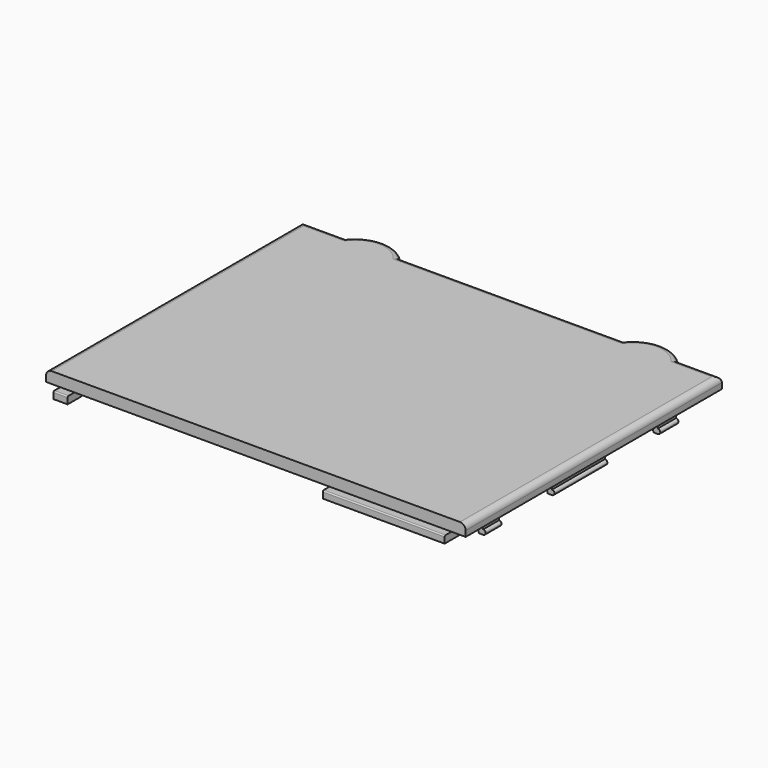
from build123d import *

# Parameters (mm, degrees)
PAD_DEPTH    = 4
PAD001_DEPTH = 138
PAD002_DEPTH = 85
POCKET_DEPTH = 10
FILLET_R     = 0.4
FILLET001_R  = 2


with BuildPart() as part:
    # Sketch → Pad (new body)
    with BuildSketch(Plane.XY):
        with BuildLine():
            Line((0, 0), (148, 0))
            Line((148, 0), (148, 113))
            Line((132.604686, 113), (148, 113))
            ThreePointArc((132.604686, 113), (123, 117.5), (113.395314, 113))
            Line((34.604686, 113), (113.395314, 113))
            ThreePointArc((34.604686, 113), (25, 117.5), (15.395314, 113))
            Line((0, 113), (15.395314, 113))
            Line((0, 113), (0, 0))
        make_face()
    extrude(amount=PAD_DEPTH)

    # Sketch001 (on Face3 of Pad) → Pad001 (join)
    with BuildSketch(Plane(origin=(5, 0, 0), x_dir=(0, -1, 0), z_dir=(-1, 0, 0))):
        Polygon((3, 0), (3, -2.5), (-3, -2.5), (-5.5, 0), (0, 0), align=None)
    extrude(amount=-PAD001_DEPTH)

    # Sketch002 (on Face10 of Pad001) → Pad002 (join)
    with BuildSketch(Plane.XZ.offset(-13)):
        with BuildLine():
            Line((143.8, 0), (140.3, 0))
            Line((140.3, 0), (142.3, -6))
            Line((142.3, -6), (143.8, -6))
            ThreePointArc((143.8, -6), (144.65, -5.15), (143.8, -4.3))
            Line((143.8, 0), (143.8, -4.3))
        make_face()
        with BuildLine():
            Line((4.2, 0), (4.2, -4.3))
            ThreePointArc((4.2, -4.3), (3.35, -5.15), (4.2, -6))
            Line((4.2, -6), (5.7, -6))
            Line((5.7, -6), (7.7, 0))
            Line((7.7, 0), (4.2, 0))
        make_face()
    extrude(amount=-PAD002_DEPTH)

    # Sketch003 (on Face4 of Pad002) → Pocket (cut)
    with BuildSketch(Plane(origin=(0, 0, 0), x_dir=(1, 0, 0), z_dir=(0, 0, -1))):
        Polygon((100, 10), (10, 10), (10, -20), (-10, -20), (-10, -43.333333), (10, -43.333333), (10, -66.666667), (-10, -66.666667), (-10, -90), (158, -90), (158, -66.666667), (100, -66.666667), (100, -43.333333), (158, -43.333333), (158, -20), (100, -20), align=None)
    extrude(amount=POCKET_DEPTH, mode=Mode.SUBTRACT)

    # Fillet
    fillet_edges = [part.edges().sort_by_distance(p)[0] for p in [
        (121.5, -3, 0),
        (7.5, -3, 0),
    ]]
    fillet(fillet_edges, radius=FILLET_R)

    # Fillet001
    fillet001_edges = [part.edges().sort_by_distance(p)[0] for p in [
        (0, 56.5, 4),
        (7.697657, 113, 4),
        (25, 117.5, 4),
        (74, 113, 4),
        (148, 56.5, 4),
        (140.302343, 113, 4),
        (123, 117.5, 4),
    ]]
    fillet(fillet001_edges, radius=FILLET001_R)


solid = part.part
